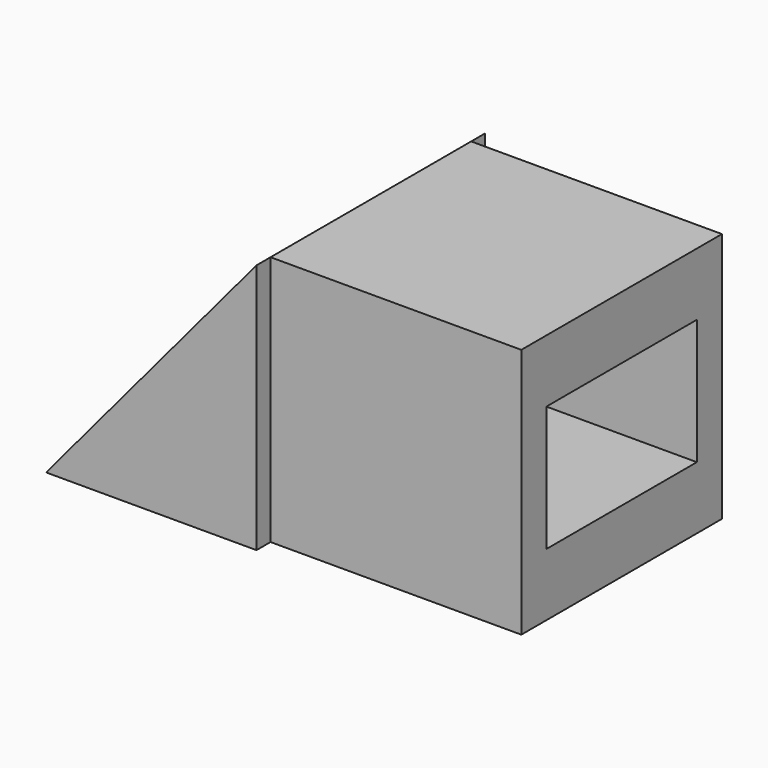
from build123d import *

# Parameters (mm, degrees)
F0_W          = 20
F0_H          = 20
F1_DEPTH      = 20
F2_DEPTH      = 21.4
F2_DEPTH_BACK = 1.4
F3_W          = 15
F3_H          = 10
F4_DEPTH      = 36.782993


with BuildPart() as f1:
    # F0 (on Front) → F1 (new body)
    with BuildSketch(Plane.XZ):
        with Locations((10, 10)):
            Rectangle(F0_W, F0_H)
        Polygon((-16.781993, 0), (0, 0), (0, 20), align=None)
    extrude(amount=F1_DEPTH)

    # F0 (on Front) → F2 (join, two sides)
    with BuildSketch(Plane.XZ) as f2_sk:
        Polygon((-16.781993, 0), (0, 0), (0, 20), align=None)
    extrude(amount=F2_DEPTH)
    extrude(f2_sk.sketch, amount=-F2_DEPTH_BACK)

    # F3 (on face) → F4 (cut, through all)
    with BuildSketch(Plane.YZ.offset(20)):
        with Locations((-10, 10)):
            Rectangle(F3_W, F3_H)
    extrude(amount=-F4_DEPTH, mode=Mode.SUBTRACT)


solid = f1.part
